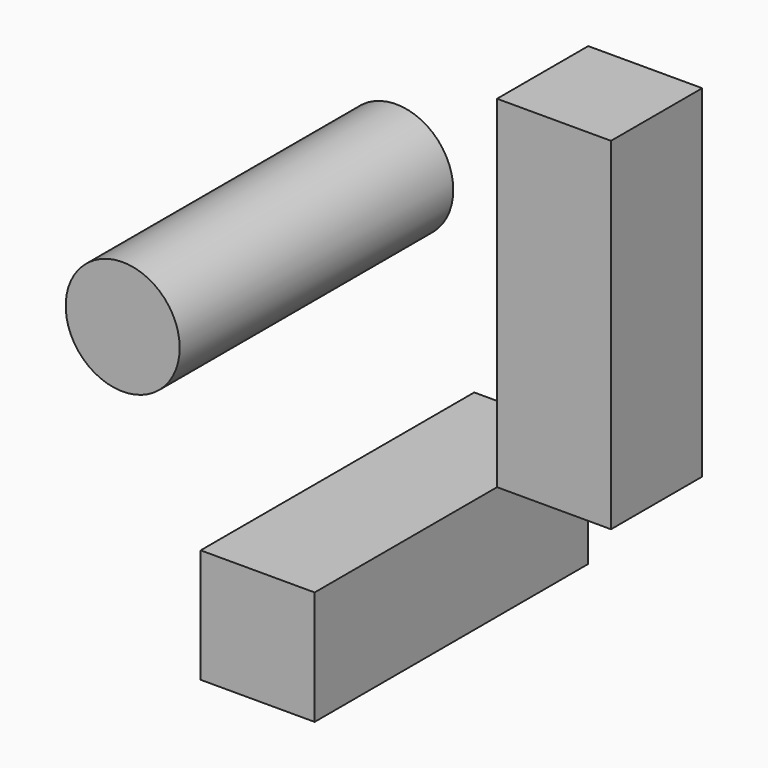
from build123d import *

# Parameters (mm, degrees)
F0_W     = 25.4
F0_H     = 76.2
F1_DEPTH = 25.4
F2_R     = 12.7
F3_DEPTH = 76.2
F4_W     = 25.4
F4_H     = 25.4
F5_DEPTH = 76.2


with BuildPart() as f1:
    # F0 (on Front) → F1 (new body)
    with BuildSketch(Plane.XZ):
        with Locations((12.7, 38.1)):
            Rectangle(F0_W, F0_H)
    extrude(amount=F1_DEPTH)


with BuildPart() as f3:
    # F2 (on Front) → F3 (new body)
    with BuildSketch(Plane.XZ):
        with Locations((-42.773843, 38.190931)):
            Circle(F2_R)
    extrude(amount=F3_DEPTH)


with BuildPart() as f5:
    # F4 (on Front) → F5 (new body)
    with BuildSketch(Plane.XZ):
        with Locations((-12.7, -12.7)):
            Rectangle(F4_W, F4_H)
    extrude(amount=F5_DEPTH)


solid = Compound([f1.part, f3.part, f5.part])
